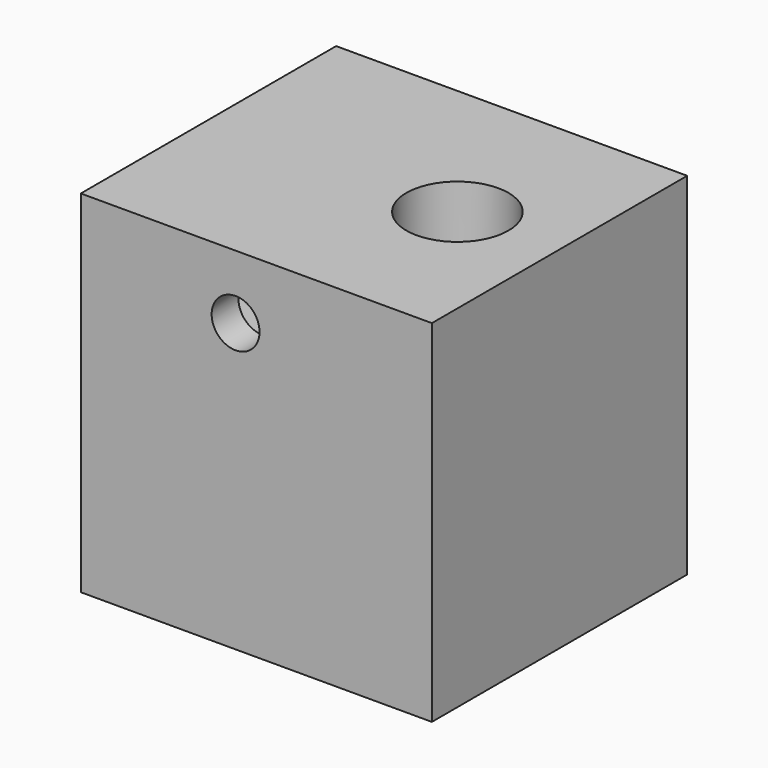
from build123d import *

# Parameters (mm, degrees)
F0_W     = 27.94
F0_H     = 25.4
F0_R     = 4.064
F1_DEPTH = 10.16
F2_W     = 20.066
F2_H     = 6.604
F3_DEPTH = 14.224
F4_R     = 1.905
F5_DEPTH = 3.0226
F6_DEPTH = 17.78


with BuildPart() as f1:
    # F0 (on Top) → F1 (new body)
    with BuildSketch(Plane.XY):
        with Locations((-11.43, 0)):
            Rectangle(F0_W, F0_H)
        with Locations((-5.588, 0)):
            Circle(F0_R, mode=Mode.SUBTRACT)
    extrude(amount=F1_DEPTH)

    # F2 (on face) → F3 (cut)
    with BuildSketch(Plane(origin=(-25.4, 0, 0), x_dir=(0, -1, 0), z_dir=(-1, 0, 0))):
        with Locations((0, 5.08)):
            Rectangle(F2_W, F2_H)
    extrude(amount=-F3_DEPTH, mode=Mode.SUBTRACT)

    # F4 (on face) → F5 (cut)
    with BuildSketch(Plane.XZ.offset(12.7)):
        with Locations((-13.081, 5.08)):
            Circle(F4_R)
    extrude(amount=-F5_DEPTH, mode=Mode.SUBTRACT)

    # F0 (on Top) → F6 (join)
    with BuildSketch(Plane.XY):
        with Locations((-11.43, 0)):
            Rectangle(F0_W, F0_H)
        with Locations((-5.588, 0)):
            Circle(F0_R, mode=Mode.SUBTRACT)
    extrude(amount=-F6_DEPTH)


solid = f1.part
